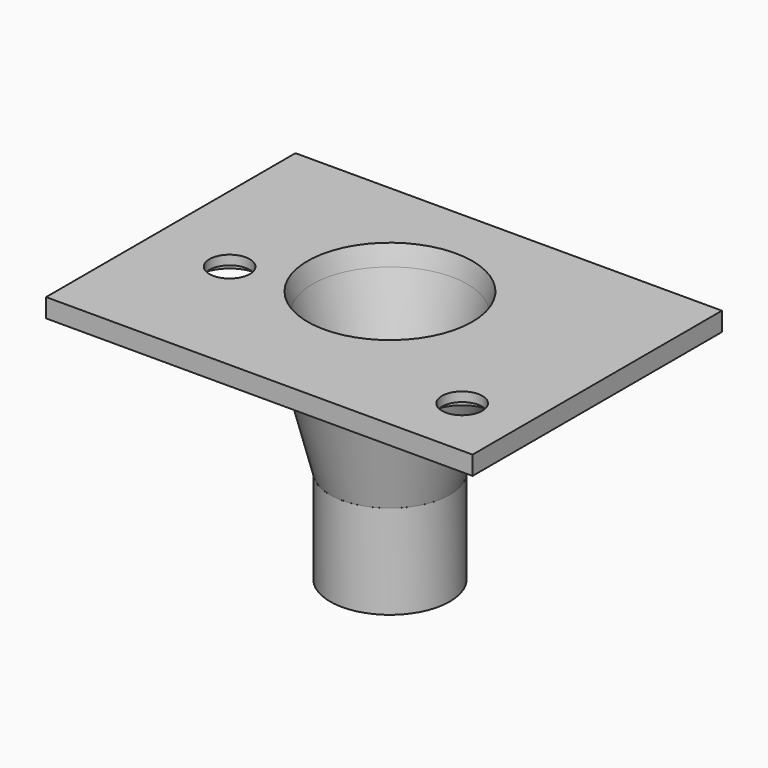
from build123d import *

# Parameters (mm, degrees)
F0_W     = 45.4043811187
F0_H     = 33.1850759685
F0_R     = 2.15
F0_W_2   = 11.5
F0_H_2   = 11.5
F1_DEPTH = 2
F2_R     = 3.5
F2_R_2   = 2.15
F3_DEPTH = 1
F6_R     = 6.375
F6_R_2   = 4.375
F7_DEPTH = 10
F4_R     = 10.25
F4_R_2   = 8.25
F4_W     = 11.5
F4_H     = 11.5
F8_DEPTH = 15
F8_TAPER = 14.5
F9_DEPTH = 17
F9_TAPER = -14.5


with BuildPart() as f1:
    # F0 (on Top) → F1 (new body)
    with BuildSketch(Plane.XY):
        with Locations((14.2143075354, 2.7766618878)):
            Rectangle(F0_W, F0_H)
        Circle(F0_R, mode=Mode.SUBTRACT)
        with Locations((30.4724055499, -7.15)):
            Circle(F0_R, mode=Mode.SUBTRACT)
        with Locations((13.14, 4.9)):
            Rectangle(F0_W_2, F0_H_2, mode=Mode.SUBTRACT)
        with Locations((14.2143075354, 2.7766618878)):
            Rectangle(F0_W, F0_H)
        Circle(F0_R, mode=Mode.SUBTRACT)
        with Locations((30.4724055499, -7.15)):
            Circle(F0_R, mode=Mode.SUBTRACT)
        with Locations((13.14, 4.9)):
            Rectangle(F0_W_2, F0_H_2, mode=Mode.SUBTRACT)
    extrude(amount=-F1_DEPTH)

    # F2 (on face) → F3 (cut)
    with BuildSketch(Plane(origin=(0, 0, -2), x_dir=(1, 0, 0), z_dir=(0, 0, -1))):
        with Locations((30.4724055499, 7.15)):
            Circle(F2_R)
        with Locations((30.4724055499, 7.15)):
            Circle(F2_R_2, mode=Mode.SUBTRACT)
        Circle(F2_R)
        Circle(F2_R_2, mode=Mode.SUBTRACT)
    extrude(amount=-F3_DEPTH, mode=Mode.SUBTRACT)


with BuildPart() as f7:
    # F6 (on offset) → F7 (new body)
    with BuildSketch(Plane(origin=(0, 0, -17), x_dir=(1, 0, 0), z_dir=(0, 0, -1))):
        with Locations((13.1962522864, -4.8414133489)):
            Circle(F6_R)
        with Locations((13.1962522864, -4.8414133489)):
            Circle(F6_R_2, mode=Mode.SUBTRACT)
    extrude(amount=F7_DEPTH)


with BuildPart() as f8:
    # F4 (on face) → F8 (new body)
    with BuildSketch(Plane(origin=(0, 0, -2), x_dir=(1, 0, 0), z_dir=(0, 0, -1))):
        with Locations((13.1962522864, -4.8414133489)):
            Circle(F4_R)
        with Locations((13.1962522864, -4.8414133489)):
            Circle(F4_R_2, mode=Mode.SUBTRACT)
        with Locations((13.1962522864, -4.8414133489)):
            Circle(F4_R_2)
        with Locations((13.14, -4.9)):
            Rectangle(F4_W, F4_H, mode=Mode.SUBTRACT)
        with Locations((13.14, -4.9)):
            Rectangle(F4_W, F4_H)
    extrude(amount=F8_DEPTH, taper=F8_TAPER)


with BuildPart() as f9_tool:
    # F6 (on offset) → F9 (new body, through all)
    with BuildSketch(Plane(origin=(0, 0, -17), x_dir=(1, 0, 0), z_dir=(0, 0, -1))):
        with Locations((13.1962522864, -4.8414133489)):
            Circle(F6_R_2)
    extrude(amount=-F9_DEPTH, taper=F9_TAPER)


with BuildPart() as f1_1:
    add(f1.part)

    # F9: cut by f9_tool
    add(f9_tool.part, mode=Mode.SUBTRACT)


with BuildPart() as f8_1:
    add(f8.part)

    # F9: cut by f9_tool
    add(f9_tool.part, mode=Mode.SUBTRACT)


solid = Compound([f7.part, f1_1.part, f8_1.part])
